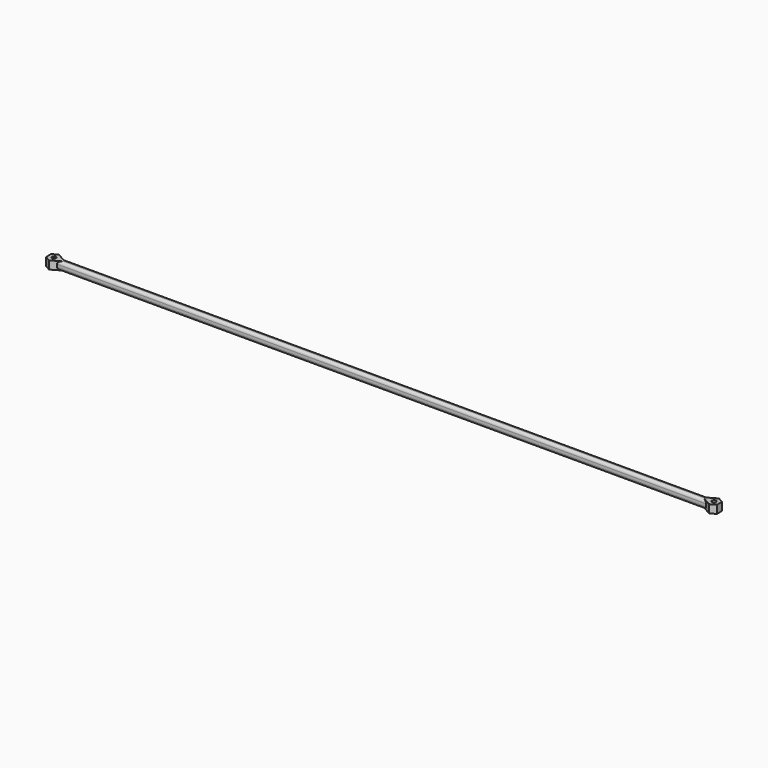
from build123d import *

# Parameters (mm, degrees)
F0_R     = 1.5
F1_DEPTH = 6
F2_DEPTH = 240
F4_R     = 2


with BuildPart() as f1:
    # F0 (on Top) → F1 (new body)
    with BuildSketch(Plane.XY):
        Polygon((-4, 2.3094010768), (-4, -2.3094010768), (0, -4.6188021535), (4, -2.3094010768), (4, 2.3094010768), (0, 4.6188021535), align=None)
        Circle(F0_R, mode=Mode.SUBTRACT)
    extrude(amount=F1_DEPTH)

    # F2 (add): a face of the model
    f2_faces = [f1.faces().sort_by_distance(p)[0] for p in [
        (4, 0, 3),
    ]]
    extrude(f2_faces, amount=F2_DEPTH)

    # F3: F1 across face


with BuildPart() as f1_1:
    add(f1.part)
    add(f1.part.mirror(Plane(origin=(244, 0, 3), x_dir=(0, 1, 0), z_dir=(1, 0, 0))))

    # F4
    f4_edges = [f1_1.edges().sort_by_distance(p)[0] for p in [
        (244, -2.309401, 6),
        (244, 2.309401, 6),
        (244, -2.309401, 0),
        (244, 2.309401, 0),
    ]]
    fillet(f4_edges, radius=F4_R)


solid = f1_1.part
